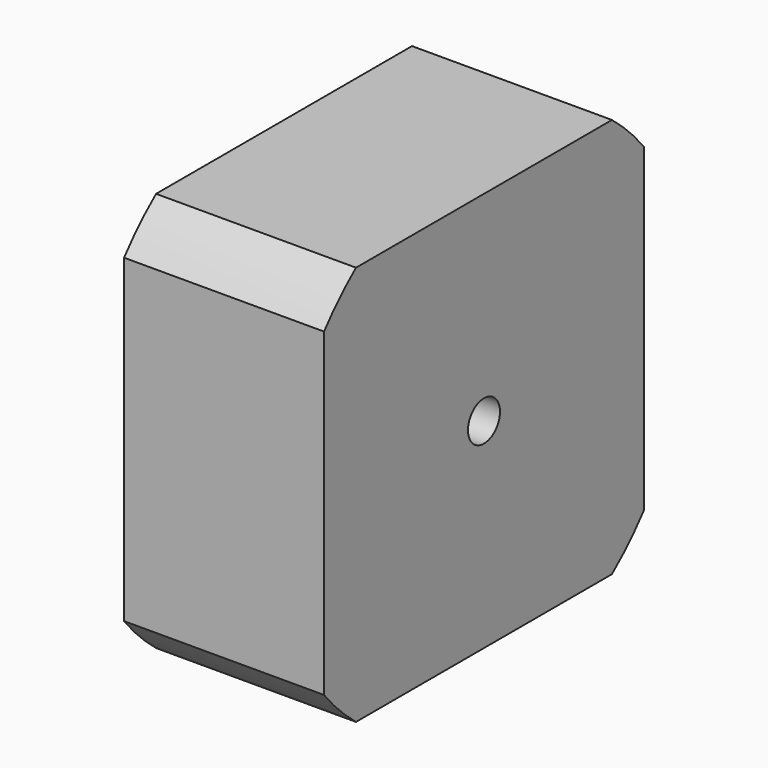
from build123d import *

# Parameters (mm, degrees)
F0_W     = 80
F0_H     = 80
F1_DEPTH = 40
F3_DEPTH = 40.001
F4_R     = 4
F5_DEPTH = 40.001
F6_R     = 8
F7_DEPTH = 1


with BuildPart() as f1:
    # F0 (on Right) → F1 (new body)
    with BuildSketch(Plane.YZ):
        Rectangle(F0_W, F0_H)
    extrude(amount=F1_DEPTH)

    # F2 (on face) → F3 (cut, through all)
    with BuildSketch(Plane.YZ.offset(40)):
        with BuildLine():
            ThreePointArc((-40, 32), (-36.221541, 36.221541), (-32, 40))
            Line((-32, 40), (-40, 40))
            Line((-40, 40), (-40, 32))
        make_face()
        with BuildLine():
            ThreePointArc((-32, -40), (-36.221541, -36.221541), (-40, -32))
            Line((-40, -32), (-40, -40))
            Line((-40, -40), (-32, -40))
        make_face()
        with BuildLine():
            ThreePointArc((40, -32), (36.221541, -36.221541), (32, -40))
            Line((32, -40), (40, -40))
            Line((40, -40), (40, -32))
        make_face()
        with BuildLine():
            ThreePointArc((32, 40), (36.221541, 36.221541), (40, 32))
            Line((40, 32), (40, 40))
            Line((40, 40), (32, 40))
        make_face()
    extrude(amount=-F3_DEPTH, mode=Mode.SUBTRACT)

    # F4 (on face) → F5 (cut, through all)
    with BuildSketch(Plane(origin=(0, 0, 0), x_dir=(0, -1, 0), z_dir=(-1, 0, 0))):
        Circle(F4_R)
    extrude(amount=-F5_DEPTH, mode=Mode.SUBTRACT)

    # F6 (on face) → F7 (join)
    with BuildSketch(Plane(origin=(0, 0, 0), x_dir=(0, -1, 0), z_dir=(-1, 0, 0))):
        with Locations((26.162951, 26.162951)):
            Circle(F6_R)
    extrude(amount=F7_DEPTH)


solid = f1.part
